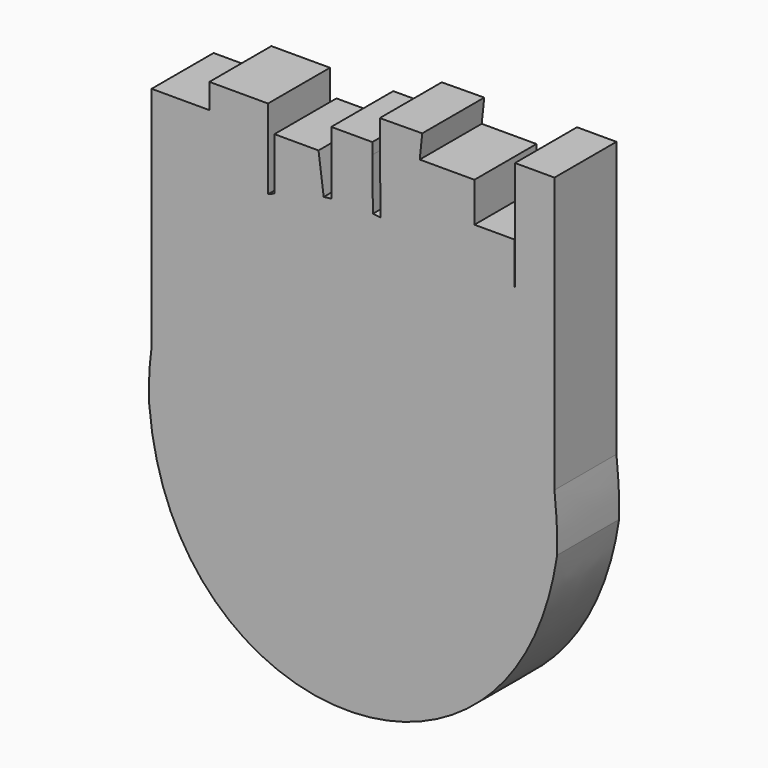
from build123d import *

# Parameters (mm, degrees)
F1_DEPTH = 20


with BuildPart() as f1:
    # F0 (on Front) → F1 (new body)
    with BuildSketch(Plane.XZ):
        with BuildLine():
            add(Edge.make_bspline(
                [(-21.722318, 57.734935), (-27.859297, 55.015494), (-32.833372, 51.301815), (-36.846273, 47.016584)],
                knots=[14.887886, 14.887886, 14.887886, 14.887886, 29.996616, 29.996616, 29.996616, 29.996616], degree=3))
            add(Edge.make_bspline(
                [(-36.846273, 47.016584), (-46.12578, 37.107336), (-50.265626, 24.14184), (-51.760266, 13.346677)],
                knots=[29.996616, 29.996616, 29.996616, 29.996616, 64.934324, 64.934324, 64.934324, 64.934324], degree=3))
            add(Edge.make_bspline(
                [(-51.760266, 13.346677), (-52.469743, 8.222425), (-52.583197, 3.587195), (-52.367426, 0)],
                knots=[64.934324, 64.934324, 64.934324, 64.934324, 81.518569, 81.518569, 81.518569, 81.518569], degree=3))
            add(Edge.make_bspline(
                [(-52.367426, 0), (-46.65998, -69.867425), (42.291667, -71.193181), (52.897733, 0)],
                knots=[0, 0, 0, 0, 105.265159, 105.265159, 105.265159, 105.265159], degree=3))
            add(Edge.make_bspline(
                [(52.210338, 14.565944), (52.768483, 9.85171), (52.974558, 4.967478), (52.897733, 0)],
                knots=[69.220725, 69.220725, 69.220725, 69.220725, 81.860246, 81.860246, 81.860246, 81.860246], degree=3))
            add(Edge.make_bspline(
                [(42.026516, 43.20865), (47.814994, 35.242619), (50.93367, 25.34899), (52.210338, 14.565944)],
                knots=[40.309872, 40.309872, 40.309872, 40.309872, 69.220725, 69.220725, 69.220725, 69.220725], degree=3))
            Line((42.026516, 43.20865), (42.026516, 36.341667))
            Line((42.026516, 36.341667), (42.005255, 43.237884))
            add(Edge.make_bspline(
                [(31.556576, 53.367701), (35.735048, 50.52724), (39.186175, 47.110795), (42.005255, 43.237884)],
                knots=[26.210335, 26.210335, 26.210335, 26.210335, 40.274494, 40.274494, 40.274494, 40.274494], degree=3))
            add(Edge.make_bspline(
                [(15.536849, 60.358789), (21.786503, 58.784782), (27.087548, 56.405678), (31.556576, 53.367701)],
                knots=[11.168201, 11.168201, 11.168201, 11.168201, 26.210335, 26.210335, 26.210335, 26.210335], degree=3))
            add(Edge.make_bspline(
                [(7.314677, 61.884856), (10.222105, 61.51986), (12.960106, 61.007755), (15.536849, 60.358789)],
                knots=[4.9663, 4.9663, 4.9663, 4.9663, 11.168201, 11.168201, 11.168201, 11.168201], degree=3))
            add(Edge.make_bspline(
                [(5.342527, 62.107149), (6.008411, 62.040455), (6.665764, 61.96632), (7.314677, 61.884856)],
                knots=[3.582089, 3.582089, 3.582089, 3.582089, 4.9663, 4.9663, 4.9663, 4.9663], degree=3))
            add(Edge.make_bspline(
                [(0, 62.473433), (1.839021, 62.402493), (3.619339, 62.27974), (5.342527, 62.107149)],
                knots=[0, 0, 0, 0, 3.582089, 3.582089, 3.582089, 3.582089], degree=3))
            add(Edge.make_bspline(
                [(0, 62.473433), (-1.86111, 62.397991), (-3.658814, 62.256857), (-5.395137, 62.05428)],
                knots=[0, 0, 0, 0, 3.260299, 3.260299, 3.260299, 3.260299], degree=3))
            Line((-5.395137, 62.05428), (-5.395137, 47.016584))
            Line((-5.395137, 47.016584), (-7.346095, 61.797247))
            add(Edge.make_bspline(
                [(-7.346095, 61.797247), (-12.036643, 61.107229), (-16.260302, 59.95632), (-20.060409, 58.435325)],
                knots=[4.497944, 4.497944, 4.497944, 4.497944, 13.546734, 13.546734, 13.546734, 13.546734], degree=3))
            add(Edge.make_bspline(
                [(-20.060409, 58.435325), (-20.623636, 58.209893), (-21.177558, 57.976331), (-21.722318, 57.734935)],
                knots=[13.546734, 13.546734, 13.546734, 13.546734, 14.887886, 14.887886, 14.887886, 14.887886], degree=3))
        make_face()
        with BuildLine():
            Line((-36.846273, 71.931325), (-36.846273, 47.016584))
            add(Edge.make_bspline(
                [(-21.722318, 57.734935), (-27.859297, 55.015494), (-32.833372, 51.301815), (-36.846273, 47.016584)],
                knots=[14.887886, 14.887886, 14.887886, 14.887886, 29.996616, 29.996616, 29.996616, 29.996616], degree=3))
            Line((-21.722318, 57.734935), (-21.722318, 71.931325))
            Line((-21.722318, 71.931325), (-21.722318, 78.35228))
            Line((-21.722318, 78.35228), (-36.846273, 78.35228))
            Line((-36.846273, 78.35228), (-36.846273, 71.931325))
        make_face()
        with BuildLine():
            add(Edge.make_bspline(
                [(-36.846273, 47.016584), (-46.12578, 37.107336), (-50.265626, 24.14184), (-51.760266, 13.346677)],
                knots=[29.996616, 29.996616, 29.996616, 29.996616, 64.934324, 64.934324, 64.934324, 64.934324], degree=3))
            Line((-36.846273, 47.016584), (-36.846273, 71.931325))
            Line((-36.846273, 71.931325), (-51.760266, 71.931325))
            Line((-51.760266, 71.931325), (-51.760266, 13.346677))
        make_face()
        with BuildLine():
            Line((-20.060409, 71.931325), (-20.060409, 58.435325))
            add(Edge.make_bspline(
                [(-7.346095, 61.797247), (-12.036643, 61.107229), (-16.260302, 59.95632), (-20.060409, 58.435325)],
                knots=[4.497944, 4.497944, 4.497944, 4.497944, 13.546734, 13.546734, 13.546734, 13.546734], degree=3))
            Line((-7.346095, 61.797247), (-8.683732, 71.931325))
            Line((-8.683732, 71.931325), (-20.060409, 71.931325))
        make_face()
        with BuildLine():
            add(Edge.make_bspline(
                [(-5.395137, 62.05428), (-6.054265, 61.977379), (-6.704547, 61.891624), (-7.346095, 61.797247)],
                knots=[3.260299, 3.260299, 3.260299, 3.260299, 4.497944, 4.497944, 4.497944, 4.497944], degree=3))
            Line((-7.346095, 61.797247), (-5.395137, 47.016584))
            Line((-5.395137, 47.016584), (-5.395137, 62.05428))
        make_face()
        with BuildLine():
            add(Edge.make_bspline(
                [(42.026516, 43.20865), (47.814994, 35.242619), (50.93367, 25.34899), (52.210338, 14.565944)],
                knots=[40.309872, 40.309872, 40.309872, 40.309872, 69.220725, 69.220725, 69.220725, 69.220725], degree=3))
            Line((52.210338, 14.565944), (52.210338, 85.566789))
            Line((52.210338, 85.566789), (42.026516, 85.566789))
            Line((42.026516, 85.566789), (42.026516, 43.20865))
        make_face()
        with BuildLine():
            Line((-5.395137, 71.931325), (-5.395137, 62.05428))
            add(Edge.make_bspline(
                [(0, 62.473433), (-1.86111, 62.397991), (-3.658814, 62.256857), (-5.395137, 62.05428)],
                knots=[0, 0, 0, 0, 3.260299, 3.260299, 3.260299, 3.260299], degree=3))
            add(Edge.make_bspline(
                [(0, 62.473433), (1.839021, 62.402493), (3.619339, 62.27974), (5.342527, 62.107149)],
                knots=[0, 0, 0, 0, 3.582089, 3.582089, 3.582089, 3.582089], degree=3))
            Line((5.342527, 62.107149), (5.230435, 75.449023))
            Line((5.230435, 75.449023), (5.206043, 78.35228))
            Line((5.206043, 78.35228), (-5.395137, 78.35228))
            Line((-5.395137, 78.35228), (-5.395137, 71.931325))
        make_face()
        with BuildLine():
            Line((42.026516, 36.341667), (42.026516, 43.20865))
            add(Edge.make_bspline(
                [(42.005255, 43.237884), (42.012346, 43.228142), (42.019433, 43.218397), (42.026516, 43.20865)],
                knots=[40.274494, 40.274494, 40.274494, 40.274494, 40.309872, 40.309872, 40.309872, 40.309872], degree=3))
            Line((42.005255, 43.237884), (42.026516, 36.341667))
        make_face()
        with BuildLine():
            add(Edge.make_bspline(
                [(31.556576, 53.367701), (35.735048, 50.52724), (39.186175, 47.110795), (42.005255, 43.237884)],
                knots=[26.210335, 26.210335, 26.210335, 26.210335, 40.274494, 40.274494, 40.274494, 40.274494], degree=3))
            Line((42.005255, 43.237884), (41.928474, 68.14196))
            Line((41.928474, 68.14196), (31.556576, 68.14196))
            Line((31.556576, 68.14196), (31.556576, 53.367701))
        make_face()
        with BuildLine():
            add(Edge.make_bspline(
                [(15.536849, 60.358789), (21.786503, 58.784782), (27.087548, 56.405678), (31.556576, 53.367701)],
                knots=[11.168201, 11.168201, 11.168201, 11.168201, 26.210335, 26.210335, 26.210335, 26.210335], degree=3))
            Line((31.556576, 53.367701), (31.556576, 68.14196))
            Line((31.556576, 68.14196), (31.556576, 78.35228))
            Line((31.556576, 78.35228), (17.436162, 78.35228))
            Line((17.436162, 78.35228), (15.536849, 60.358789))
        make_face()
        with BuildLine():
            Line((7.125281, 84.427975), (7.314677, 61.884856))
            add(Edge.make_bspline(
                [(7.314677, 61.884856), (10.222105, 61.51986), (12.960106, 61.007755), (15.536849, 60.358789)],
                knots=[4.9663, 4.9663, 4.9663, 4.9663, 11.168201, 11.168201, 11.168201, 11.168201], degree=3))
            Line((15.536849, 60.358789), (17.436162, 78.35228))
            Line((17.436162, 78.35228), (18.087206, 84.520072))
            Line((18.087206, 84.520072), (7.125281, 84.427975))
        make_face()
    extrude(amount=F1_DEPTH)


solid = f1.part
